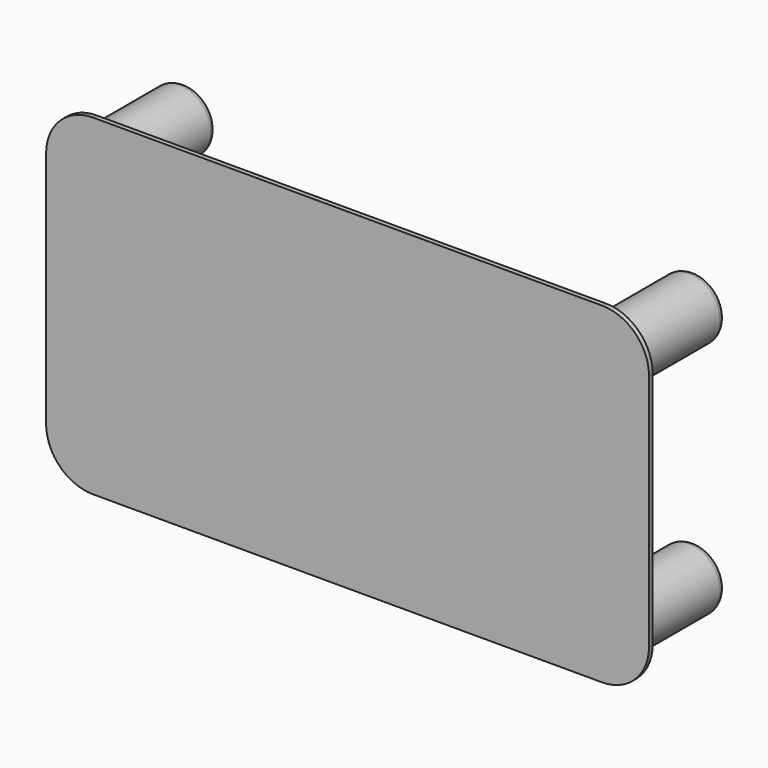
from build123d import *

# Parameters (mm, degrees)
F0_R     = 6.751658
F1_DEPTH = 1
F2_DEPTH = 25
F3_R     = 1.5


with BuildPart() as f1:
    # F0 (on Front) → F1 (new body)
    with BuildSketch(Plane.XZ):
        with BuildLine():
            Line((-74.545912, -21.686205), (35.944755, -21.686205))
            ThreePointArc((35.944755, -21.686205), (43.12896, -18.71041), (46.104755, -11.526205))
            Line((46.104755, -11.526205), (46.104755, 40.112911))
            ThreePointArc((46.104755, 40.112911), (43.12896, 47.297116), (35.944755, 50.272911))
            Line((35.944755, 50.272911), (-74.545912, 50.272911))
            ThreePointArc((-74.545912, 50.272911), (-81.730116, 47.297116), (-84.705912, 40.112911))
            Line((-84.705912, 40.112911), (-84.705912, -11.526205))
            ThreePointArc((-84.705912, -11.526205), (-81.730116, -18.71041), (-74.545912, -21.686205))
        make_face()
        with Locations((-74.545912, -11.526205)):
            Circle(F0_R, mode=Mode.SUBTRACT)
        with Locations((35.944755, -11.526205)):
            Circle(F0_R, mode=Mode.SUBTRACT)
        with Locations((-74.545912, 40.112911)):
            Circle(F0_R, mode=Mode.SUBTRACT)
        with Locations((35.944755, 40.112912)):
            Circle(F0_R, mode=Mode.SUBTRACT)
    extrude(amount=-F1_DEPTH)

    # F0 (on Front) → F2 (join)
    with BuildSketch(Plane.XZ):
        with Locations((35.944755, 40.112912)):
            Circle(F0_R)
        with Locations((35.944755, -11.526205)):
            Circle(F0_R)
        with Locations((-74.545912, -11.526205)):
            Circle(F0_R)
        with Locations((-74.545912, 40.112911)):
            Circle(F0_R)
    extrude(amount=-F2_DEPTH)

    # F3
    f3_edges = [f1.edges().sort_by_distance(p)[0] for p in [
        (-81.29757, 25, 40.112911),
        (29.193097, 25, 40.112912),
        (29.193097, 25, -11.526205),
        (-81.29757, 25, -11.526205),
    ]]
    fillet(f3_edges, radius=F3_R)


solid = f1.part
